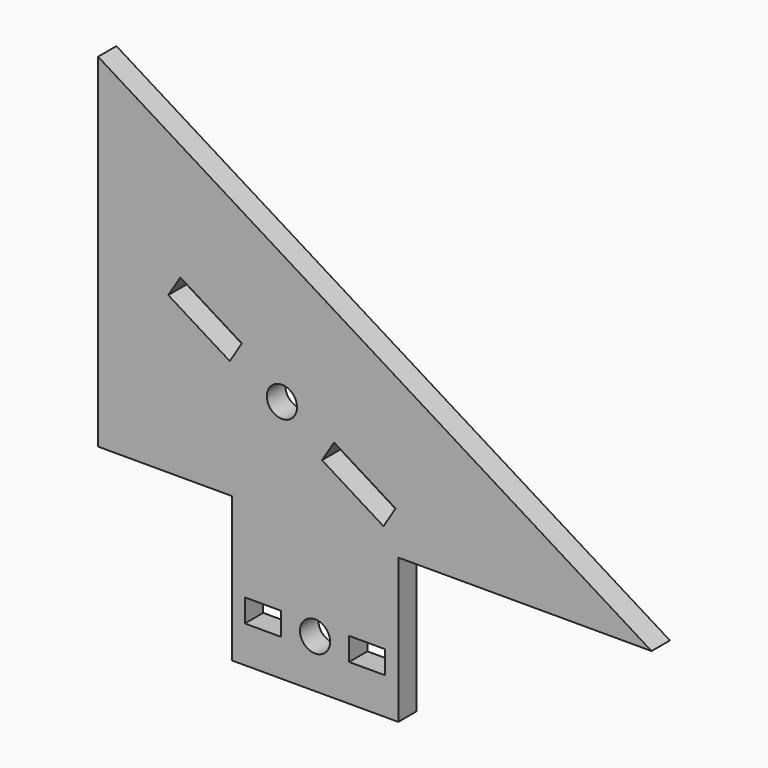
from build123d import *

# Parameters (mm, degrees)
F0_W     = 5
F0_H     = 3.175
F0_R     = 2.085
F1_DEPTH = 3.175


with BuildPart() as f1:
    # F0 (on Front) → F1 (new body)
    with BuildSketch(Plane.XZ):
        Polygon((-11.5, -17.39739), (0, -17.39739), (11.5, -17.39739), (11.5, 2.60261), (46.5, 2.60261), (-29.983476, 50.039705), (-29.983476, 2.60261), (-11.5, 2.60261), align=None)
        with Locations((-7.2, -10.728544)):
            Rectangle(F0_W, F0_H, mode=Mode.SUBTRACT)
        with Locations((0, -10.728544)):
            Circle(F0_R, mode=Mode.SUBTRACT)
        with Locations((7.2, -10.728544)):
            Rectangle(F0_W, F0_H, mode=Mode.SUBTRACT)
        with Locations((-4.577627, 16.319375)):
            Circle(F0_R, mode=Mode.SUBTRACT)
        Polygon((9.457422, 5.746411), (0.959258, 11.0172), (2.632733, 13.715367), (11.130897, 8.444579), align=None, mode=Mode.SUBTRACT)
        Polygon((-20.286152, 24.194171), (-18.612677, 26.892338), (-10.114513, 21.621549), (-11.787988, 18.923382), align=None, mode=Mode.SUBTRACT)
    extrude(amount=F1_DEPTH)


solid = f1.part
